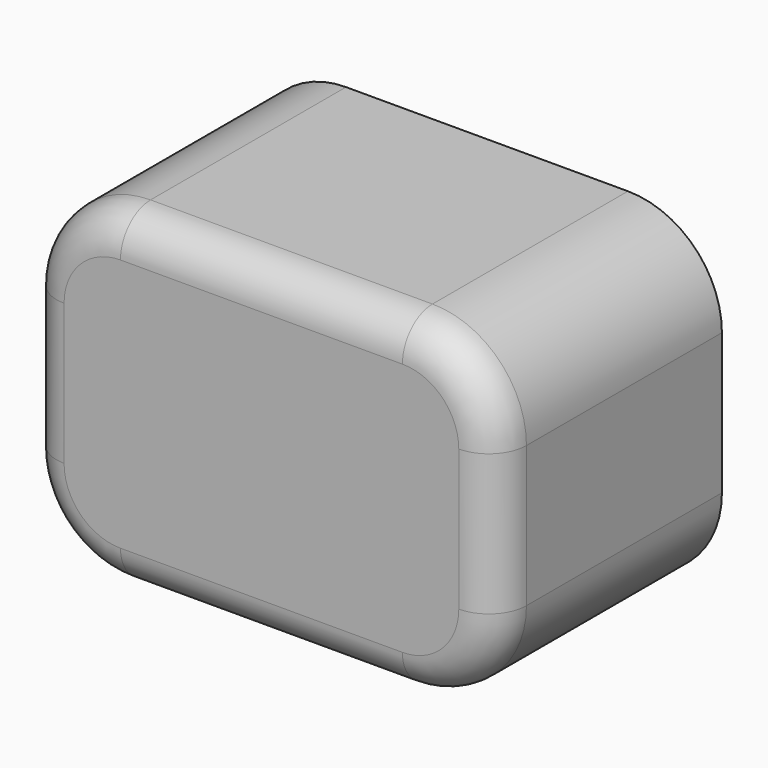
from build123d import *

# Parameters (mm, degrees)
F0_W     = 63.5
F0_H     = 44.45
F1_DEPTH = 12.7
F2_R     = 12.7
F3_R     = 12.7
F4_R     = 12.7
F5_R     = 12.7
F6_R     = 5.08
F7_DEPTH = 25.4


with BuildPart() as f1:
    # F0 (on Front) → F1 (new body)
    with BuildSketch(Plane.XZ):
        with Locations((31.75, 22.225)):
            Rectangle(F0_W, F0_H)
    extrude(amount=F1_DEPTH)

    # F2
    f2_edges = [f1.edges().sort_by_distance(p)[0] for p in [
        (0, -6.35, 44.45),
    ]]
    fillet(f2_edges, radius=F2_R)

    # F3
    f3_edges = [f1.edges().sort_by_distance(p)[0] for p in [
        (63.5, -6.35, 44.45),
    ]]
    fillet(f3_edges, radius=F3_R)

    # F4
    f4_edges = [f1.edges().sort_by_distance(p)[0] for p in [
        (0, -6.35, 0),
    ]]
    fillet(f4_edges, radius=F4_R)

    # F5
    f5_edges = [f1.edges().sort_by_distance(p)[0] for p in [
        (63.5, -6.35, 0),
    ]]
    fillet(f5_edges, radius=F5_R)

    # F6
    f6_edges = [f1.edges().sort_by_distance(p)[0] for p in [
        (59.780256, -12.7, 40.730256),
    ]]
    fillet(f6_edges, radius=F6_R)

    # F7 (add): a face of the model
    f7_faces = [f1.faces().sort_by_distance(p)[0] for p in [
        (31.75, 0, 22.225),
    ]]
    extrude(f7_faces, amount=F7_DEPTH)


solid = f1.part
